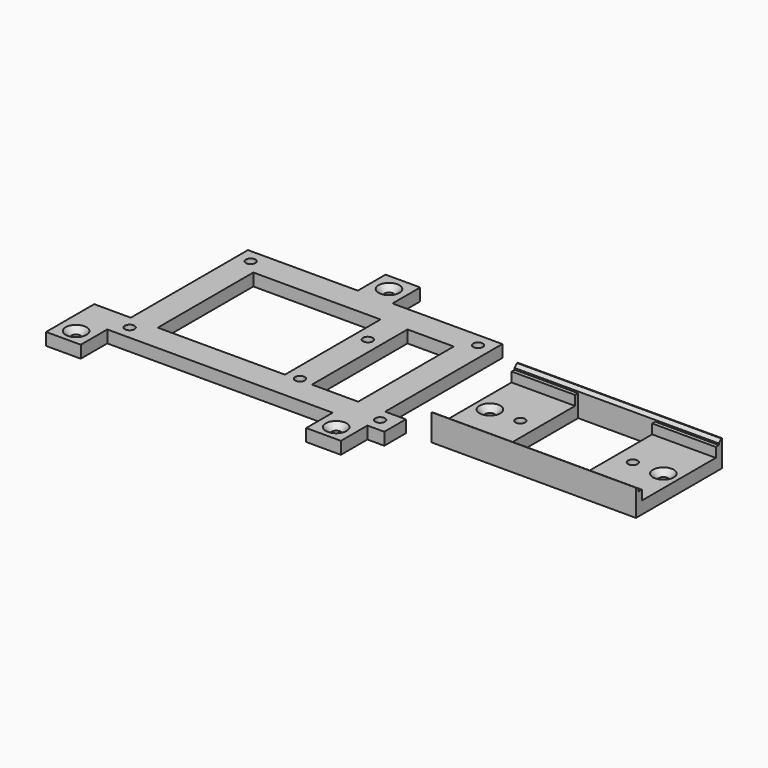
from build123d import *

# Parameters (mm, degrees)
F0_R           = 2.54
F0_W           = 43.18
F0_H           = 43.18
F0_W_2         = 8.89
F0_W_3         = 11.43
F0_H_2         = 11.43
F0_H_3         = 39.37
F0_W_4         = 67.31
F0_H_4         = 35.56
F0_W_5         = 25.4
F0_H_5         = 33.02
F1_DEPTH       = 4.064
F2_DEPTH       = 7.62
F3_D           = 1.27
F5_D           = 3.175
F5_CSINK_D     = 6.858
F5_CSINK_ANGLE = 90
F6_D           = 3.175
F6_CSINK_D     = 6.858
F6_CSINK_ANGLE = 90
F7_W           = 20.955
F7_H           = 1.27
F8_DEPTH       = 3.175
F9_DEPTH       = 4.699
F10_SIZE       = 1.016
F11_W          = 190.5601248145
F11_H          = 80.0042673945
F12_DEPTH      = 7.874
F13_W          = 87.6229498535
F13_H          = 28.0315037817
F14_DEPTH      = 10.922


with BuildPart() as f1:
    # F0 (on Top) → F1 (new body)
    with BuildSketch(Plane.XY):
        Polygon((30.48, 21.59), (30.48, 30.48), (5.715, 30.48), (-5.715, 30.48), (-30.48, 30.48), (-30.48, 21.59), (-30.48, -21.59), (-30.48, -30.48), (-5.715, -30.48), (5.715, -30.48), (30.48, -30.48), (30.48, -21.59), align=None)
        with Locations((-25.4, -25.4)):
            Circle(F0_R, mode=Mode.SUBTRACT)
        with Locations((-25.4, 25.4)):
            Circle(F0_R, mode=Mode.SUBTRACT)
        with Locations((25.4, -25.4)):
            Circle(F0_R, mode=Mode.SUBTRACT)
        Rectangle(F0_W, F0_H, mode=Mode.SUBTRACT)
        with Locations((25.4, 25.4)):
            Circle(F0_R, mode=Mode.SUBTRACT)
        Polygon((-30.48, 21.59), (-30.48, 30.48), (-80.01, 30.48), (-91.44, 30.48), (-91.44, 21.59), (-82.55, 21.59), align=None)
        with Locations((-86.36, 25.4)):
            Circle(F0_R, mode=Mode.SUBTRACT)
        with Locations((-35.56, 25.4)):
            Circle(F0_R, mode=Mode.SUBTRACT)
        with Locations((-86.995, 0)):
            Rectangle(F0_W_2, F0_H)
        Polygon((-30.48, -30.48), (-30.48, -21.59), (-82.55, -21.59), (-91.44, -21.59), (-91.44, -30.48), (-80.01, -30.48), align=None)
        with Locations((-86.36, -25.4)):
            Circle(F0_R, mode=Mode.SUBTRACT)
        with Locations((-35.56, -25.4)):
            Circle(F0_R, mode=Mode.SUBTRACT)
        Polygon((80.01, 30.48), (30.48, 30.48), (30.48, 21.59), (82.55, 21.59), (91.44, 21.59), (91.44, 30.48), align=None)
        with Locations((35.56, 25.4)):
            Circle(F0_R, mode=Mode.SUBTRACT)
        with Locations((86.36, 25.4)):
            Circle(F0_R, mode=Mode.SUBTRACT)
        Polygon((82.55, -21.59), (30.48, -21.59), (30.48, -30.48), (80.01, -30.48), (91.44, -30.48), (91.44, -21.59), align=None)
        with Locations((35.56, -25.4)):
            Circle(F0_R, mode=Mode.SUBTRACT)
        with Locations((86.36, -25.4)):
            Circle(F0_R, mode=Mode.SUBTRACT)
        with Locations((86.995, 0)):
            Rectangle(F0_W_2, F0_H)
        with Locations((-85.725, 36.195)):
            Rectangle(F0_W_3, F0_H_2)
        with Locations((85.725, 36.195)):
            Rectangle(F0_W_3, F0_H_2)
        with Locations((85.725, -36.195)):
            Rectangle(F0_W_3, F0_H_2)
        with Locations((-85.725, -36.195)):
            Rectangle(F0_W_3, F0_H_2)
        with Locations((0, 36.195)):
            Rectangle(F0_W_3, F0_H_2)
        with Locations((0, -36.195)):
            Rectangle(F0_W_3, F0_H_2)
        Polygon((-5.715, 41.91), (5.715, 41.91), (80.01, 41.91), (91.44, 41.91), (91.44, 50.8), (86.9756826884, 50.8), (19.6656826884, 50.8), (4.445, 50.8), (-4.445, 50.8), (-19.685, 50.8), (-28.575, 50.8), (-70.485, 50.8), (-79.375, 50.8), (-91.44, 50.8), (-91.44, 41.91), (-80.01, 41.91), align=None)
        Polygon((-79.375, 99.06), (-79.375, 50.8), (-70.485, 50.8), (-70.485, 90.17), (-70.485, 99.06), align=None)
        Polygon((-70.485, 99.06), (-70.485, 90.17), (-28.575, 90.17), (-19.685, 90.17), (-4.445, 90.17), (-4.445, 99.06), (-31.75, 99.06), (-43.18, 99.06), align=None)
        with Locations((-24.13, 70.485)):
            Rectangle(F0_W_2, F0_H_3)
        Polygon((-4.445, 50.8), (4.445, 50.8), (4.445, 99.06), (-4.445, 99.06), (-4.445, 90.17), align=None)
        with Locations((53.3206826884, 68.58)):
            Rectangle(F0_W_4, F0_H_4)
        with Locations((53.3206826884, 68.58)):
            Rectangle(F0_W_5, F0_H_5, mode=Mode.SUBTRACT)
        with Locations((-37.465, 104.775)):
            Rectangle(F0_W_3, F0_H_2)
    extrude(amount=F1_DEPTH)

    # F0 (on Top) → F2 (join)
    with BuildSketch(Plane.XY):
        with Locations((-25.4, 25.4)):
            Circle(F0_R)
        with Locations((25.4, 25.4)):
            Circle(F0_R)
        with Locations((25.4, -25.4)):
            Circle(F0_R)
        with Locations((-25.4, -25.4)):
            Circle(F0_R)
        with Locations((-86.36, 25.4)):
            Circle(F0_R)
        with Locations((-86.36, -25.4)):
            Circle(F0_R)
        with Locations((-35.56, 25.4)):
            Circle(F0_R)
        with Locations((-35.56, -25.4)):
            Circle(F0_R)
        with Locations((35.56, -25.4)):
            Circle(F0_R)
        with Locations((86.36, -25.4)):
            Circle(F0_R)
        with Locations((86.36, 25.4)):
            Circle(F0_R)
        with Locations((35.56, 25.4)):
            Circle(F0_R)
    extrude(amount=F2_DEPTH)

    # F3 (through all)
    with Locations(Plane(origin=(0, 0, 0), x_dir=(1, 0, 0), z_dir=(0, 0, -1))):
        with Locations((-25.4, -25.4), (25.4, -25.4), (25.4, 25.4), (-25.4, 25.4), (-86.36, -25.4), (-35.56, -25.4), (-86.36, 25.4), (-35.56, 25.4), (35.56, -25.4), (86.36, -25.4), (35.56, 25.4), (86.36, 25.4)):
            Hole(F3_D / 2)

    # F5 (through all)
    with Locations(Plane.XY.offset(4.064)):
        with Locations((-85.725, 36.195), (-85.725, -36.195), (85.725, -36.195), (85.725, 36.195), (0, 36.195), (0, -36.195), (-37.465, 104.775), (24.7456826884, 68.58), (81.8956826884, 68.58)):
            CounterSinkHole(F5_D / 2, F5_CSINK_D / 2, counter_sink_angle=F5_CSINK_ANGLE)

    # F6 (through all)
    with Locations(Plane(origin=(0, 0, 0), x_dir=(1, 0, 0), z_dir=(0, 0, -1))):
        with Locations((-76.2, -46.355), (-74.93, -94.615), (-24.13, -79.375), (-24.13, -51.435), (6.35, -46.355), (0, -94.615), (34.7786826884, -68.58), (71.8626826884, -68.58)):
            CounterSinkHole(F6_D / 2, F6_CSINK_D / 2, counter_sink_angle=F6_CSINK_ANGLE)

    # F7 (on face) → F8 (join)
    with BuildSketch(Plane.XY.offset(4.064)):
        with Locations((30.1431826884, 84.455)):
            Rectangle(F7_W, F7_H)
        with Locations((76.4981826884, 84.455)):
            Rectangle(F7_W, F7_H)
        with Locations((30.1431826884, 52.705)):
            Rectangle(F7_W, F7_H)
        with Locations((76.4981826884, 52.705)):
            Rectangle(F7_W, F7_H)
    extrude(amount=F8_DEPTH)

    # F7 (on face) → F9 (join)
    with BuildSketch(Plane.XY.offset(4.064)):
        Polygon((40.6206826884, 52.07), (19.6656826884, 52.07), (19.6656826884, 50.8), (86.9756826884, 50.8), (86.9756826884, 52.07), (66.0206826884, 52.07), align=None)
        Polygon((86.9756826884, 86.36), (19.6656826884, 86.36), (19.6656826884, 85.09), (40.6206826884, 85.09), (66.0206826884, 85.09), (86.9756826884, 85.09), align=None)
    extrude(amount=F9_DEPTH)

    # F10
    f10_edges = [f1.edges().sort_by_distance(p)[0] for p in [
        (53.320683, 52.07, 8.763),
        (53.320683, 85.09, 8.763),
    ]]
    chamfer(f10_edges, length=F10_SIZE)

    # F11 (on Top) → F12 (cut)
    with BuildSketch(Plane.XY):
        with Locations((1.2620054185, -9.0111382306)):
            Rectangle(F11_W, F11_H)
    extrude(amount=F12_DEPTH, mode=Mode.SUBTRACT)

    # F13 (on Top) → F14 (cut)
    with BuildSketch(Plane.XY):
        with Locations((55.0828827545, 36.9434738532)):
            Rectangle(F13_W, F13_H)
    extrude(amount=F14_DEPTH, mode=Mode.SUBTRACT)


solid = f1.part
